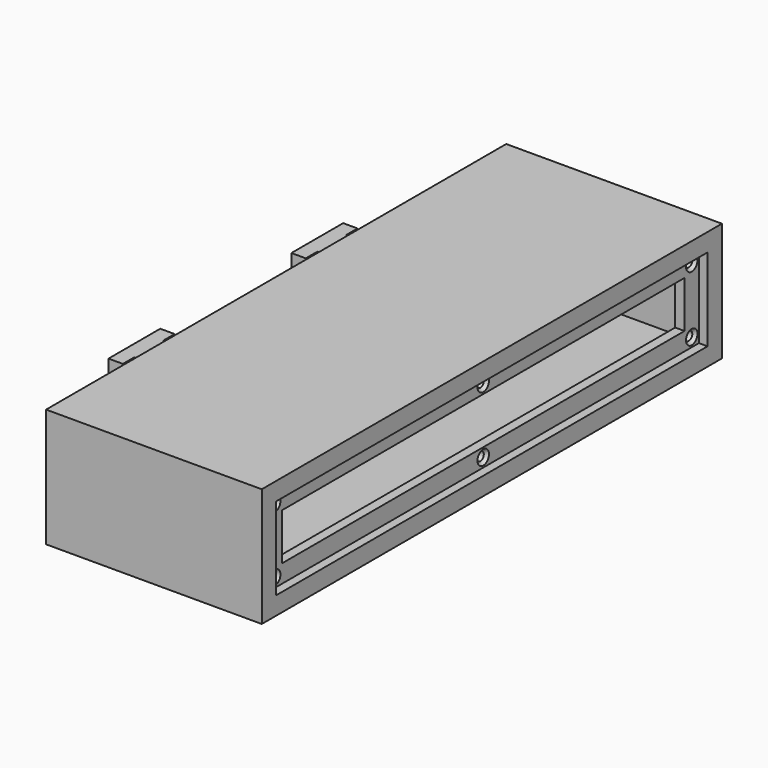
from build123d import *

# Parameters (mm, degrees)
F1_DEPTH        = 41.25
F0_W            = 6.25
F0_H            = 30
F2_DEPTH        = 25.25
F3_START        = 6
F2_FACE_W       = 6.25
F2_FACE_H       = 30
F3_DEPTH        = 10
F4_START        = 6.25
F4_DEPTH        = 25
F5_START        = 35
F5_DEPTH        = 6.25
F6_DEPTH        = 6.25
F7_W            = 175
F7_H            = 16.25
F8_DEPTH        = 10
F7_W_2          = 187.5
F7_H_2          = 28.75
F9_DEPTH        = 3
F11_D           = 3
F11_DEPTH       = 12
F11_CSINK_D     = 5
F11_CSINK_ANGLE = 90
F11_TIP         = 0.9012909285


with BuildPart() as f1:
    # F0 (on Top) → F1 (new body)
    with BuildSketch(Plane.XY):
        Polygon((0, -100), (0, 100), (-75, 100), (-75, 46), (-75, 33.5), (-75, 15), (-68.75, 15), (-68.75, 93.75), (-6.25, 93.75), (-6.25, -93.75), (-68.75, -93.75), (-68.75, -15), (-75, -15), (-75, -33.5), (-75, -46), (-75, -100), align=None)
    extrude(amount=F1_DEPTH)

    # F0 (on Top) → F2 (join)
    with BuildSketch(Plane.XY):
        with Locations((-71.875, 0)):
            Rectangle(F0_W, F0_H)
    extrude(amount=F2_DEPTH)

    # F2_face (on face) → F3 (join)
    with BuildSketch(Plane(origin=(-71.875, 0, 25.25), x_dir=(1, 0, 0), z_dir=(0, 0, 1)).offset(F3_START)):
        Rectangle(F2_FACE_W, F2_FACE_H)
    extrude(amount=F3_DEPTH)

    # F0 (on Top) → F4 (join)
    with BuildSketch(Plane.XY.offset(F4_START)):
        Polygon((-75, 33.5), (-75, 46), (-87.5, 46), (-87.5, 51), (-92.5, 51), (-92.5, 28.5), (-87.5, 28.5), (-87.5, 33.5), align=None)
        Polygon((-87.5, -46), (-75, -46), (-75, -33.5), (-87.5, -33.5), (-87.5, -28.5), (-92.5, -28.5), (-92.5, -51), (-87.5, -51), align=None)
    extrude(amount=F4_DEPTH)

    # F0 (on Top) → F5 (join)
    with BuildSketch(Plane.XY.offset(F5_START)):
        Polygon((-68.75, 93.75), (-68.75, 15), (-68.75, -15), (-68.75, -93.75), (-6.25, -93.75), (-6.25, 93.75), align=None)
    extrude(amount=F5_DEPTH)

    # F0 (on Top) → F6 (join)
    with BuildSketch(Plane.XY):
        Polygon((-68.75, 93.75), (-68.75, 15), (-68.75, -15), (-68.75, -93.75), (-6.25, -93.75), (-6.25, 93.75), align=None)
    extrude(amount=F6_DEPTH)

    # F7 (on face) → F8 (cut)
    with BuildSketch(Plane.YZ):
        with Locations((0, 20.625)):
            Rectangle(F7_W, F7_H)
    extrude(amount=-F8_DEPTH, mode=Mode.SUBTRACT)

    # F7 (on face) → F9 (cut)
    with BuildSketch(Plane.YZ):
        with Locations((0, 20.625)):
            Rectangle(F7_W_2, F7_H_2)
        with Locations((0, 20.625)):
            Rectangle(F7_W, F7_H, mode=Mode.SUBTRACT)
    extrude(amount=-F9_DEPTH, mode=Mode.SUBTRACT)

    # F11
    with Locations(Plane.YZ.offset(-3)):
        with Locations((-90.625, 31.875), (0, 31.875), (90.625, 31.875), (90.625, 9.375), (0, 9.375), (-90.625, 9.375)):
            CounterSinkHole(F11_D / 2, F11_CSINK_D / 2, depth=F11_DEPTH, counter_sink_angle=F11_CSINK_ANGLE)
            with Locations((0, 0, -(F11_DEPTH + F11_TIP / 2))):  # 118° drill point
                Cone(0, F11_D / 2, F11_TIP, mode=Mode.SUBTRACT)


solid = f1.part
